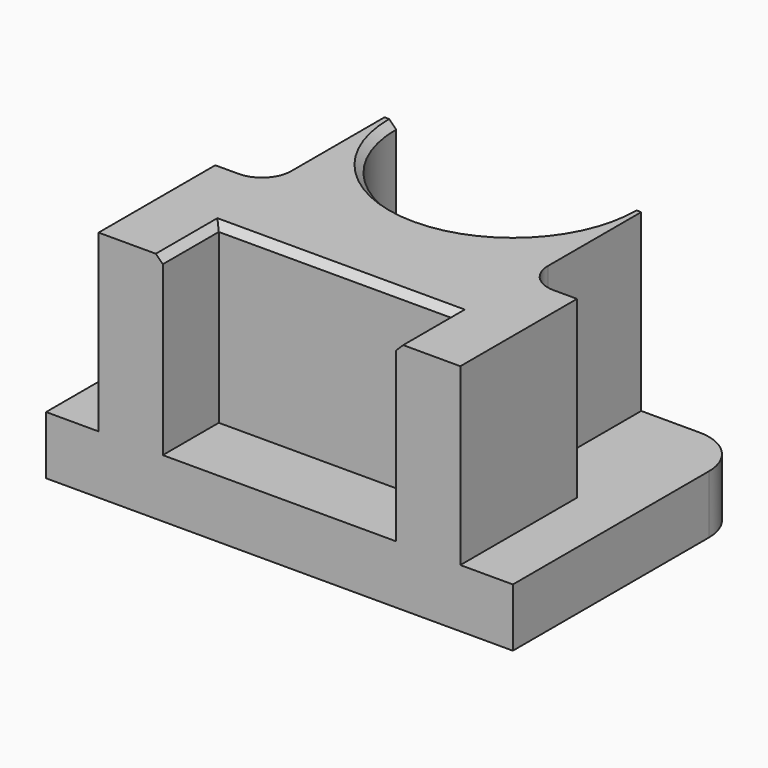
from build123d import *

# Parameters (mm, degrees)
F1_DEPTH = 25.4
F2_W     = 25.4
F2_H     = 7.62
F3_DEPTH = 19.05
F5_DEPTH = 19.05
F6_R     = 5.08
F7_DEPTH = 3.175
F8_DEPTH = 3.175
F9_R     = 3.175
F10_SIZE = 0.762


with BuildPart() as f1:
    # F0 (on Top) → F1 (new body)
    with BuildSketch(Plane.XY):
        with BuildLine():
            Line((25.4, 15.875), (12.7, 15.875))
            ThreePointArc((12.7, 15.875), (0, 3.175), (-12.7, 15.875))
            Line((-12.7, 15.875), (-25.4, 15.875))
            Line((-25.4, 15.875), (-25.4, -15.875))
            Line((-25.4, -15.875), (25.4, -15.875))
            Line((25.4, -15.875), (25.4, 15.875))
        make_face()
    extrude(amount=F1_DEPTH)

    # F2 (on face) → F3 (cut)
    with BuildSketch(Plane.XY.offset(25.4)):
        with Locations((0, -12.065)):
            Rectangle(F2_W, F2_H)
    extrude(amount=-F3_DEPTH, mode=Mode.SUBTRACT)

    # F4 (on face) → F5 (cut)
    with BuildSketch(Plane.XY.offset(25.4)):
        Polygon((-25.4, 15.875), (-25.4, -15.875), (-16.51, -15.875), (-16.51, 0), (-13.97, 0), (-13.97, 15.875), align=None)
        Polygon((25.4, 15.875), (13.97, 15.875), (13.97, 0), (16.51, 0), (16.51, -15.875), (25.4, -15.875), align=None)
    extrude(amount=-F5_DEPTH, mode=Mode.SUBTRACT)

    # F6
    f6_edges = [f1.edges().sort_by_distance(p)[0] for p in [
        (25.4, 15.875, 3.175),
        (-25.4, 15.875, 3.175),
    ]]
    fillet(f6_edges, radius=F6_R)

    # F7 (add): a face of the model
    f7_faces = [f1.faces().sort_by_distance(p)[0] for p in [
        (16.51, -7.9375, 15.875),
    ]]
    extrude(f7_faces, amount=F7_DEPTH)

    # F8 (add): a face of the model
    f8_faces = [f1.faces().sort_by_distance(p)[0] for p in [
        (-16.51, -7.9375, 15.875),
    ]]
    extrude(f8_faces, amount=F8_DEPTH)

    # F9
    f9_edges = [f1.edges().sort_by_distance(p)[0] for p in [
        (-13.97, 0, 15.875),
        (13.97, 0, 15.875),
    ]]
    fillet(f9_edges, radius=F9_R)

    # F10
    f10_edges = [f1.edges().sort_by_distance(p)[0] for p in [
        (0, -8.255, 25.4),
        (12.7, -12.065, 25.4),
        (-12.7, -12.065, 25.4),
        (0, 3.175, 25.4),
    ]]
    chamfer(f10_edges, length=F10_SIZE)


solid = f1.part
